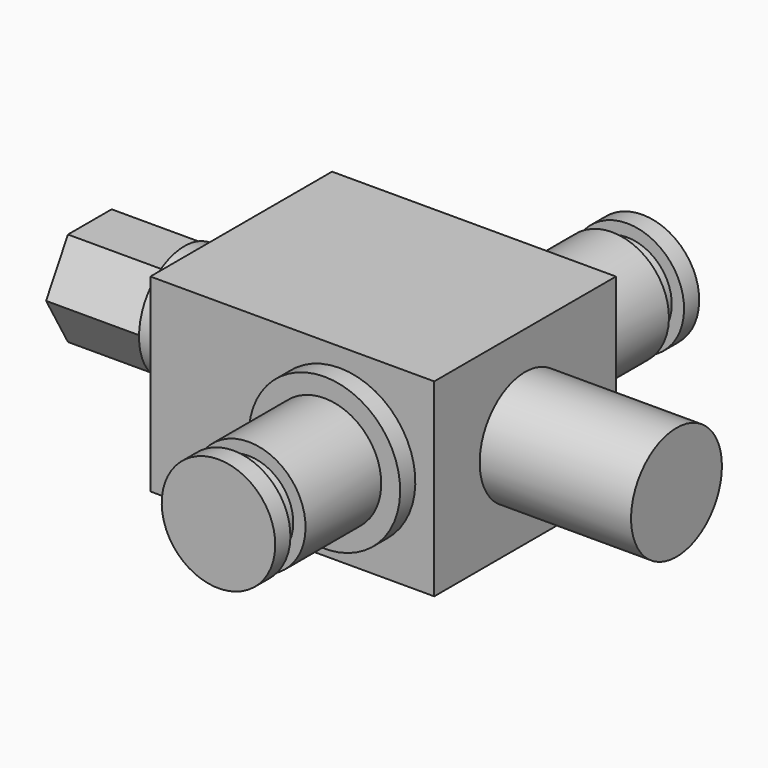
from build123d import *

# Parameters (mm, degrees)
F0_W      = 15
F0_H      = 6
F1_DEPTH  = 10
F5_R      = 3
F6_DEPTH  = 8
F7_R      = 3
F8_DEPTH  = 8
F9_R      = 3
F10_DEPTH = 5


with BuildPart() as f1:
    # F0 (on Top) → F1 (new body)
    with BuildSketch(Plane.XY):
        with Locations((-2.5, 3)):
            Rectangle(F0_W, F0_H)
    extrude(amount=F1_DEPTH)

    # F2 (on Right) → F3 (revolve)
    with BuildSketch(Plane.YZ):
        Polygon((6, 9), (6, 5), (14, 5), (14, 8), (13, 8), (13, 7.35), (12, 7.35), (12, 8), (7, 8), (7, 9), align=None)
    revolve(axis=Axis((0, 10, 5), (0, 1, 0)))

    # F4: F1 across plane


with BuildPart() as f1_1:
    add(f1.part)
    add(f1.part.mirror(Plane.XZ))

    # F5 (on face) → F6 (join)
    with BuildSketch(Plane.YZ.offset(5)):
        with Locations((0, 5)):
            Circle(F5_R)
    extrude(amount=F6_DEPTH)

    # F7 (on face) → F8 (join)
    with BuildSketch(Plane(origin=(-10, 0, 0), x_dir=(0, -1, 0), z_dir=(-1, 0, 0))):
        with Locations((0, 5)):
            Circle(F7_R)
    extrude(amount=F8_DEPTH)

    # F9 (on face) → F10 (cut)
    with BuildSketch(Plane(origin=(-18, 0, 0), x_dir=(0, -1, 0), z_dir=(-1, 0, 0))):
        with Locations((0, 5)):
            Circle(F9_R)
        Polygon((-1.443376, 7.5), (1.443376, 7.5), (2.886751, 5), (1.443376, 2.5), (-1.443376, 2.5), (-2.886751, 5), align=None, mode=Mode.SUBTRACT)
    extrude(amount=-F10_DEPTH, mode=Mode.SUBTRACT)


solid = f1_1.part
